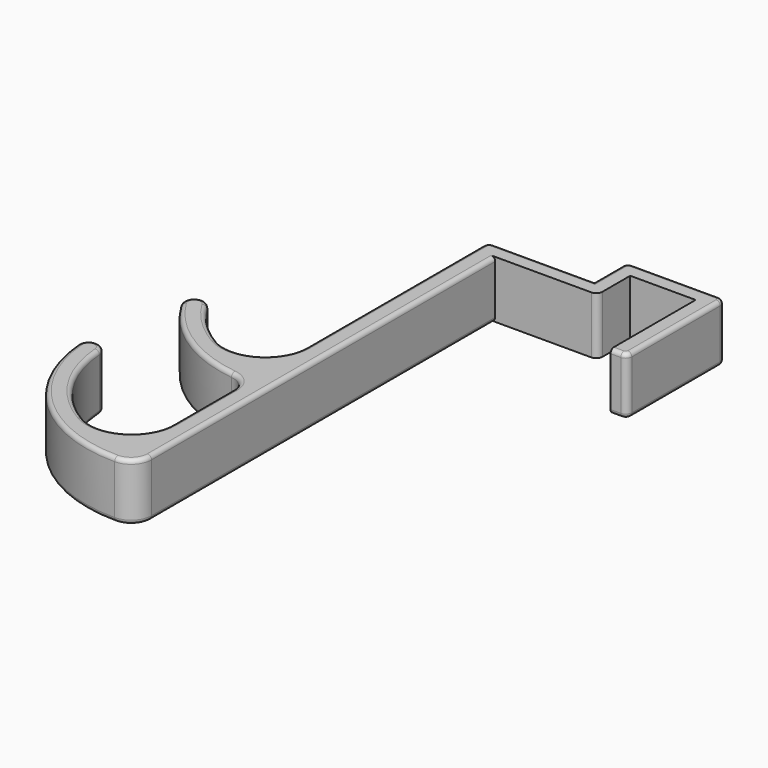
from build123d import *

# Parameters (mm, degrees)
F1_DEPTH = 14
F2_R     = 1


with BuildPart() as f1:
    # F0 (on Top) → F1 (new body)
    with BuildSketch(Plane.XY):
        with BuildLine():
            ThreePointArc((43.5, -16), (44.56066, -15.56066), (45, -14.5))
            Line((45, -14.5), (45, 12.5))
            ThreePointArc((45, 12.5), (44.56066, 13.56066), (43.5, 14))
            Line((43.5, 14), (22.5, 14))
            ThreePointArc((22.5, 14), (21.43934, 13.56066), (21, 12.5))
            Line((21, 12.5), (21, 4))
            Line((21, 4), (-3.5, 4))
            ThreePointArc((-3.5, 4), (-4.56066, 3.56066), (-5, 2.5))
            Line((-5, 2.5), (-5, -51.453343))
            ThreePointArc((-5, -51.453343), (-10, -60.113597), (-20, -60.113597))
            ThreePointArc((-20, -60.113597), (-25.974168, -55.58241), (-30.638095, -49.711284))
            ThreePointArc((-30.638095, -49.711284), (-34.072807, -48.87298), (-34.911111, -52.307692))
            ThreePointArc((-34.911111, -52.307692), (-24.035892, -63.50348), (-9.375, -68.858321))
            ThreePointArc((-9.375, -68.858321), (-6.25, -70.511915), (-5, -73.819105))
            Line((-5, -73.819105), (-5, -92.320508))
            ThreePointArc((-5, -92.320508), (-10, -100.980762), (-20, -100.980762))
            ThreePointArc((-20, -100.980762), (-30.384159, -90.988886), (-34.911111, -77.307692))
            ThreePointArc((-34.911111, -77.307692), (-35.705288, -75.665502), (-37.403703, -75))
            ThreePointArc((-37.403703, -75), (-39.238202, -75.801584), (-39.896296, -77.692308))
            ThreePointArc((-39.896296, -77.692308), (-28.777818, -100.682978), (-5, -110))
            ThreePointArc((-5, -110), (-1.464466, -108.535534), (0, -105))
            Line((0, -105), (0, 0))
            Line((0, 0), (23.5, 0))
            ThreePointArc((23.5, 0), (24.56066, 0.43934), (25, 1.5))
            Line((25, 1.5), (25, 10))
            Line((25, 10), (41, 10))
            Line((41, 10), (41, -16))
            Line((41, -16), (43.5, -16))
        make_face()
    extrude(amount=F1_DEPTH)

    # F2
    f2_edges = [f1.edges().sort_by_distance(p)[0] for p in [
        (45, -1, 14),
        (44.56066, 13.56066, 14),
        (33, 14, 14),
        (8.75, 4, 14),
        (-5, -24.476671, 0),
        (21, 8.25, 0),
    ]]
    fillet(f2_edges, radius=F2_R)


solid = f1.part
